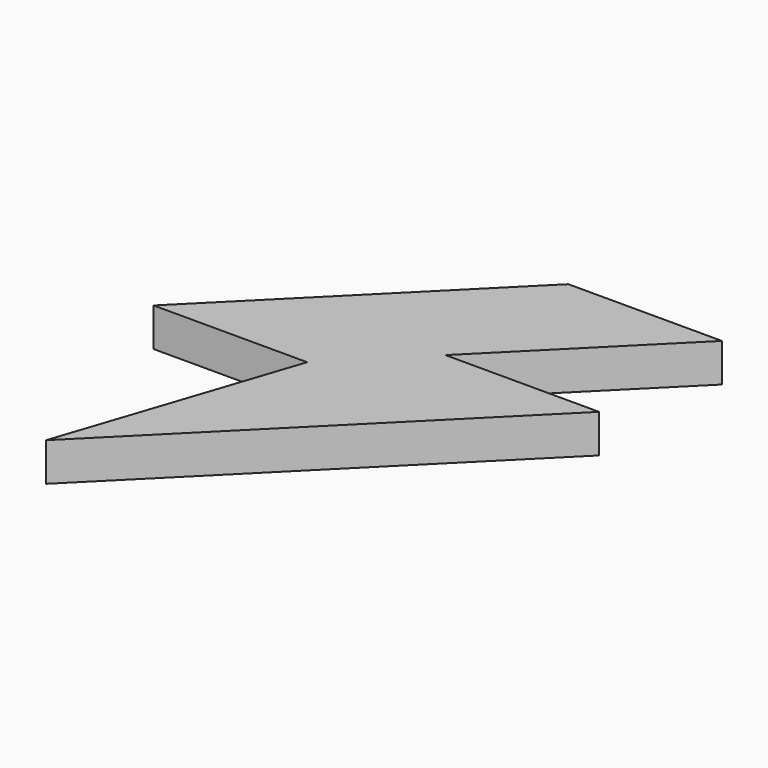
from build123d import *

# Parameters (mm, degrees)
PAD_DEPTH = 5


with BuildPart() as part:
    # Sketch → Pad (new body)
    with BuildSketch(Plane.XY):
        Polygon((0, 20), (20, 20), (0, 0), (20, 0), (-20, -40), (-10, -10), (-30, -10), align=None)
    extrude(amount=PAD_DEPTH)


solid = part.part
